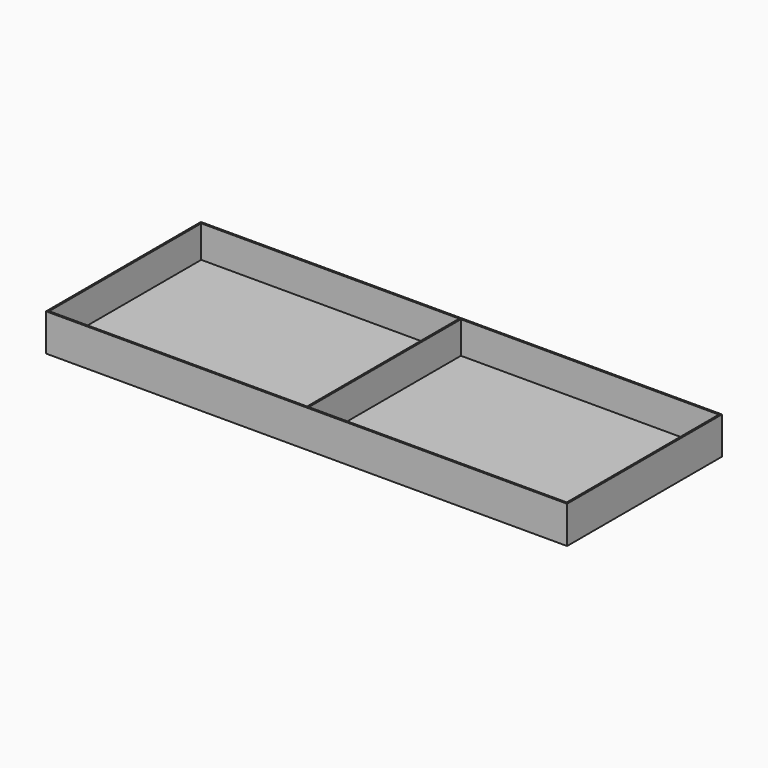
from build123d import *

# Parameters (mm, degrees)
F0_W     = 245
F0_H     = 91
F1_DEPTH = 17.5
F2_W     = 243.4
F2_H     = 89.4
F3_DEPTH = 15.1
F4_W     = 0.8
F4_H     = 89.4
F5_DEPTH = 15.1
F6_W     = 239
F6_H     = 85
F7_DEPTH = 0.2


with BuildPart() as f1:
    # F0 (on Top) → F1 (new body)
    with BuildSketch(Plane.XY):
        Rectangle(F0_W, F0_H)
    extrude(amount=F1_DEPTH)

    # F2 (on face) → F3 (cut)
    with BuildSketch(Plane.XY.offset(17.5)):
        Rectangle(F2_W, F2_H)
    extrude(amount=-F3_DEPTH, mode=Mode.SUBTRACT)

    # F4 (on face) → F5 (join)
    with BuildSketch(Plane.XY.offset(2.4)):
        Rectangle(F4_W, F4_H)
    extrude(amount=F5_DEPTH)

    # F6 (on face) → F7 (cut)
    with BuildSketch(Plane(origin=(0, 0, 0), x_dir=(1, 0, 0), z_dir=(0, 0, -1))):
        Rectangle(F6_W, F6_H)
    extrude(amount=-F7_DEPTH, mode=Mode.SUBTRACT)


solid = f1.part
